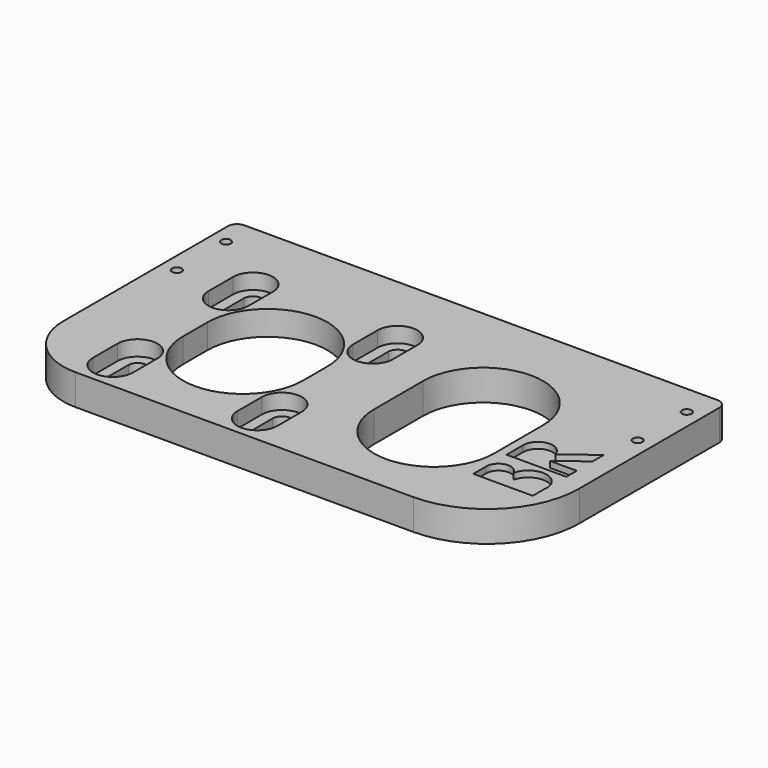
from build123d import *

# Parameters (mm, degrees)
SKETCH_W        = 160
SKETCH_H        = 90
SKETCH_R        = 1.5625
PAD_DEPTH       = 10
POCKET_DEPTH    = 5
FILLET_R        = 20
FILLET001_R     = 30
POCKET001_DEPTH = 10.001
FILLET002_R     = 3
SKETCH003_W     = 59.09549
SKETCH003_H     = 69
POCKET002_DEPTH = 2
FILLET003_R     = 2
POCKET003_DEPTH = 2


with BuildPart() as part:
    # Sketch → Pad (new body)
    with BuildSketch(Plane.XY):
        with Locations((100, -45)):
            Rectangle(SKETCH_W, SKETCH_H)
        with Locations((175, -10)):
            Circle(SKETCH_R, mode=Mode.SUBTRACT)
        with Locations((175, -30)):
            Circle(SKETCH_R, mode=Mode.SUBTRACT)
        with Locations((25, -10)):
            Circle(SKETCH_R, mode=Mode.SUBTRACT)
        with Locations((25, -30)):
            Circle(SKETCH_R, mode=Mode.SUBTRACT)
        with BuildLine():
            ThreePointArc((95.0113, -23.9887), (92.0113, -20.9887), (89.0113, -23.9887))
            Line((89.0113, -23.9887), (89.0113, -33.9887))
            ThreePointArc((89.0113, -33.9887), (92.0113, -36.9887), (95.0113, -33.9887))
            Line((95.0113, -23.9887), (95.0113, -33.9887))
        make_face(mode=Mode.SUBTRACT)
        with BuildLine():
            ThreePointArc((88, -47.5), (68.5, -28), (49, -47.5))
            Line((49, -47.5), (49, -57.5))
            ThreePointArc((49, -57.5), (68.5, -77), (88, -57.5))
            Line((88, -47.5), (88, -57.5))
        make_face(mode=Mode.SUBTRACT)
        with BuildLine():
            ThreePointArc((95.0113, -71.0113), (92.0113, -68.0113), (89.0113, -71.0113))
            Line((89.0113, -71.0113), (89.0113, -81.0113))
            ThreePointArc((89.0113, -81.0113), (92.0113, -84.0113), (95.0113, -81.0113))
            Line((95.0113, -71.0113), (95.0113, -81.0113))
        make_face(mode=Mode.SUBTRACT)
        with BuildLine():
            ThreePointArc((47.9887, -71.0113), (44.9887, -68.0113), (41.9887, -71.0113))
            Line((41.9887, -71.0113), (41.9887, -81.0113))
            ThreePointArc((41.9887, -81.0113), (44.9887, -84.0113), (47.9887, -81.0113))
            Line((47.9887, -71.0113), (47.9887, -81.0113))
        make_face(mode=Mode.SUBTRACT)
        with BuildLine():
            ThreePointArc((47.9887, -23.9887), (44.9887, -20.9887), (41.9887, -23.9887))
            Line((41.9887, -23.9887), (41.9887, -33.9887))
            ThreePointArc((41.9887, -33.9887), (44.9887, -36.9887), (47.9887, -33.9887))
            Line((47.9887, -23.9887), (47.9887, -33.9887))
        make_face(mode=Mode.SUBTRACT)
    extrude(amount=PAD_DEPTH)

    # Sketch001 (on Face30 of Pad) → Pocket (cut)
    with BuildSketch(Plane.XY.offset(10)):
        with BuildLine():
            ThreePointArc((98.5113, -23.9887), (92.0113, -17.4887), (85.5113, -23.9887))
            Line((85.5113, -23.9887), (85.5113, -33.9887))
            ThreePointArc((85.5113, -33.9887), (92.0113, -40.4887), (98.5113, -33.9887))
            Line((98.5113, -23.9887), (98.5113, -33.9887))
        make_face()
        with BuildLine():
            ThreePointArc((51.4887, -23.9887), (44.9887, -17.4887), (38.4887, -23.9887))
            Line((38.4887, -23.9887), (38.4887, -33.9887))
            ThreePointArc((38.4887, -33.9887), (44.9887, -40.4887), (51.4887, -33.9887))
            Line((51.4887, -23.9887), (51.4887, -33.9887))
        make_face()
        with BuildLine():
            ThreePointArc((98.5113, -71.0113), (92.0113, -64.5113), (85.5113, -71.0113))
            Line((85.5113, -71.0113), (85.5113, -81.0113))
            ThreePointArc((85.5113, -81.0113), (92.0113, -87.5113), (98.5113, -81.0113))
            Line((98.5113, -71.0113), (98.5113, -81.0113))
        make_face()
        with BuildLine():
            ThreePointArc((51.4887, -71.0113), (44.9887, -64.5113), (38.4887, -71.0113))
            Line((38.4887, -71.0113), (38.4887, -81.0113))
            ThreePointArc((38.4887, -81.0113), (44.9887, -87.5113), (51.4887, -81.0113))
            Line((51.4887, -71.0113), (51.4887, -81.0113))
        make_face()
    extrude(amount=-POCKET_DEPTH, mode=Mode.SUBTRACT)

    # Fillet
    fillet_edges = [part.edges().sort_by_distance(p)[0] for p in [
        (20, -90, 5),
    ]]
    fillet(fillet_edges, radius=FILLET_R)

    # Fillet001
    fillet001_edges = [part.edges().sort_by_distance(p)[0] for p in [
        (180, -90, 5),
    ]]
    fillet(fillet001_edges, radius=FILLET001_R)

    # Sketch002 → Pocket001 (cut, through all)
    with BuildSketch(Plane.XY.offset(10)):
        with BuildLine():
            ThreePointArc((151, -38.5), (131.5, -19), (112, -38.5))
            Line((112, -38.5), (112, -58.5))
            ThreePointArc((112, -58.5), (131.5, -78), (151, -58.5))
            Line((151, -38.5), (151, -58.5))
        make_face()
    extrude(amount=-POCKET001_DEPTH, mode=Mode.SUBTRACT)

    # Fillet002
    fillet002_edges = [part.edges().sort_by_distance(p)[0] for p in [
        (20, 0, 5),
        (180, 0, 5),
    ]]
    fillet(fillet002_edges, radius=FILLET002_R)

    # Sketch003 (on Face38 of Fillet002) → Pocket002 (cut)
    with BuildSketch(Plane.XY):
        with Locations((68.547745, -52.5)):
            Rectangle(SKETCH003_W, SKETCH003_H)
    extrude(amount=POCKET002_DEPTH, mode=Mode.SUBTRACT)

    # Fillet003
    fillet003_edges = [part.edges().sort_by_distance(p)[0] for p in [
        (98.09549, -18, 1),
        (39, -18, 1),
        (39, -87, 1),
        (98.09549, -87, 1),
    ]]
    fillet(fillet003_edges, radius=FILLET003_R)

    # Sketch004 (on Face27 of Fillet003) → Pocket003 (cut)
    with BuildSketch(Plane(origin=(37, -216, 10), x_dir=(0, 1, 0), z_dir=(0, 0, 1))):
        with BuildLine():
            Line((145.517159, -116.903893), (150.632976, -116.903893))
            ThreePointArc((152.318723, -124.528938), (154.676782, -120.008753), (150.632976, -116.903893))
            ThreePointArc((150.000824, -136.237228), (156.909165, -131.521294), (152.318723, -124.528938))
            Line((150.000824, -136.237228), (145.517159, -136.237228))
            Line((145.517159, -136.237228), (145.517159, -116.903893))
        make_face()
        with BuildLine():
            Line((165.495066, -116.903893), (159.00824, -116.903893))
            Line((159.00824, -116.903893), (159.00824, -136.362732))
            Line((159.00824, -136.362732), (163.24652, -136.362732))
            Line((163.24652, -136.362732), (163.24652, -127.595039))
            Line((163.24652, -127.595039), (169.794234, -136.298567))
            Line((169.794234, -136.298567), (174.341334, -136.298567))
            Line((174.341334, -136.298567), (166.926646, -126.442617))
            ThreePointArc((166.926646, -126.442617), (170.507239, -121.02845), (165.495066, -116.903893))
        make_face()
    extrude(amount=-POCKET003_DEPTH, mode=Mode.SUBTRACT)


solid = part.part
